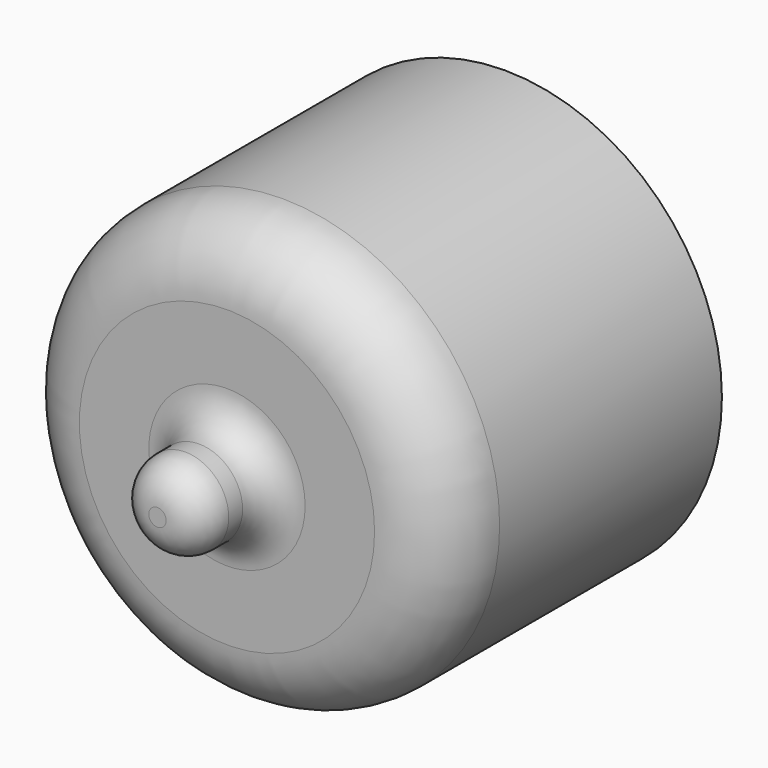
from build123d import *

# Parameters (mm, degrees)
F0_R     = 15.875
F1_DEPTH = 25.4
F2_R     = 5.08
F3_R     = 3.175
F4_DEPTH = 6.35
F5_R     = 2.54


with BuildPart() as f1:
    # F0 (on Front) → F1 (new body)
    with BuildSketch(Plane.XZ):
        Circle(F0_R)
    extrude(amount=F1_DEPTH)

    # F2
    f2_edges = [f1.edges().sort_by_distance(p)[0] for p in [
        (-15.875, -25.4, 0),
    ]]
    fillet(f2_edges, radius=F2_R)

    # F3 (on face) → F4 (join)
    with BuildSketch(Plane.XZ.offset(25.4)):
        Circle(F3_R)
    extrude(amount=F4_DEPTH)

    # F5
    f5_edges = [f1.edges().sort_by_distance(p)[0] for p in [
        (-3.175, -31.75, 0),
        (-3.175, -25.4, 0),
    ]]
    fillet(f5_edges, radius=F5_R)


solid = f1.part
